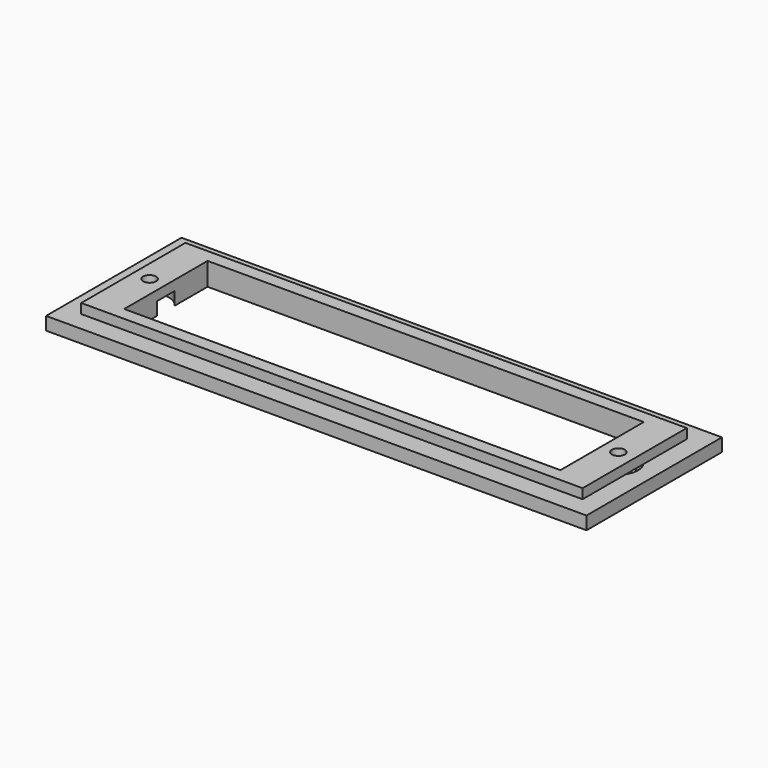
from build123d import *

# Parameters (mm, degrees)
F0_W     = 83
F0_H     = 26
F0_W_2   = 67
F0_H_2   = 16
F1_DEPTH = 2
F2_W     = 77
F2_H     = 20
F2_W_2   = 67
F2_H_2   = 16
F3_DEPTH = 1.5
F4_R     = 1
F5_DEPTH = 25
F6_R     = 1
F7_DEPTH = 2


with BuildPart() as f1:
    # F0 (on Top) → F1 (new body)
    with BuildSketch(Plane.XY):
        Rectangle(F0_W, F0_H)
        Rectangle(F0_W_2, F0_H_2, mode=Mode.SUBTRACT)
    extrude(amount=F1_DEPTH)

    # F2 (on face) → F3 (join)
    with BuildSketch(Plane.XY.offset(2)):
        Rectangle(F2_W, F2_H)
        Rectangle(F2_W_2, F2_H_2, mode=Mode.SUBTRACT)
    extrude(amount=F3_DEPTH)

    # F4 (on face) → F5 (cut)
    with BuildSketch(Plane(origin=(0, 0, 0), x_dir=(1, 0, 0), z_dir=(0, 0, -1))):
        with Locations((-36, 0)):
            Circle(F4_R)
        with Locations((36, 0)):
            Circle(F4_R)
    extrude(amount=-F5_DEPTH, mode=Mode.SUBTRACT)

    # F6 (on face) → F7 (cut)
    with BuildSketch(Plane(origin=(0, 0, 0), x_dir=(1, 0, 0), z_dir=(0, 0, -1))):
        with Locations((-36, 0)):
            Circle(F6_R)
        with Locations((36, 0)):
            Circle(F6_R)
        with BuildLine():
            Line((-33.5, -1.658312), (-33.5, 1.658312))
            ThreePointArc((-33.5, 1.658312), (-39, 0), (-33.5, -1.658312))
        make_face()
        with Locations((-36, 0)):
            Circle(F6_R, mode=Mode.SUBTRACT)
        with BuildLine():
            Line((33.5, -1.658312), (33.5, 1.658312))
            ThreePointArc((33.5, 1.658312), (33, 0), (33.5, -1.658312))
        make_face()
        with BuildLine():
            ThreePointArc((39, 0), (36.866025, 2.872281), (33.5, 1.658312))
            Line((33.5, 1.658312), (33.5, -1.658312))
            ThreePointArc((33.5, -1.658312), (36.866025, -2.872281), (39, 0))
        make_face()
        with Locations((36, 0)):
            Circle(F6_R, mode=Mode.SUBTRACT)
        with BuildLine():
            Line((-33.5, -1.658312), (-33.5, 1.658312))
            ThreePointArc((-33.5, 1.658312), (-39, 0), (-33.5, -1.658312))
        make_face()
        with Locations((-36, 0)):
            Circle(F6_R, mode=Mode.SUBTRACT)
    extrude(amount=-F7_DEPTH, mode=Mode.SUBTRACT)


solid = f1.part
